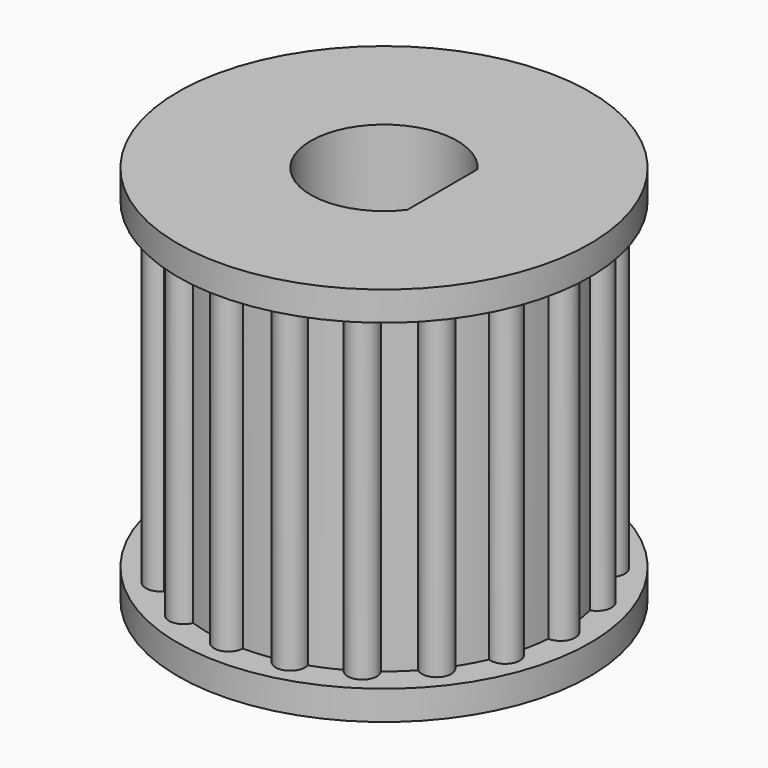
from build123d import *

# Parameters (mm, degrees)
PAD033_DEPTH          = 11
POLARPATTERN002_COUNT = 19
PAD034_DEPTH          = 13


with BuildPart() as part:
    # Sketch066 → Revolution003 (revolve)
    with BuildSketch(Plane.YZ):
        Polygon((2.5, 0), (7.03, 0), (7.03, 1), (6.03, 1), (6.03, 12), (7.03, 12), (7.03, 13), (2.5, 13), align=None)
    revolve(axis=Axis((0, 0, 0), (0, 0, 1)))

    # Sketch065 → Pad033 (new body)
    with BuildSketch(Plane.XY.offset(1)):
        with BuildLine():
            ThreePointArc((5.78, -0.433013), (6.53, 0), (5.78, 0.433013))
            Line((5.78, 0.433013), (5.78, -0.433013))
        make_face()
    pad033 = extrude(amount=PAD033_DEPTH)

    # PolarPattern002: Pad033 ×19 about axis
    polarpattern002_axis = Axis((0, 0, 1), (0, 0, 1))
    for i in range(1, POLARPATTERN002_COUNT):
        add(pad033.rotate(polarpattern002_axis, i * 360 / POLARPATTERN002_COUNT))

    # Sketch067 → Pad034 (join)
    with BuildSketch(Plane.XY):
        with BuildLine():
            ThreePointArc((2, -1.5), (2.5, 0), (2, 1.5))
            Line((2, 1.5), (2, -1.5))
        make_face()
    extrude(amount=PAD034_DEPTH)


solid = part.part
